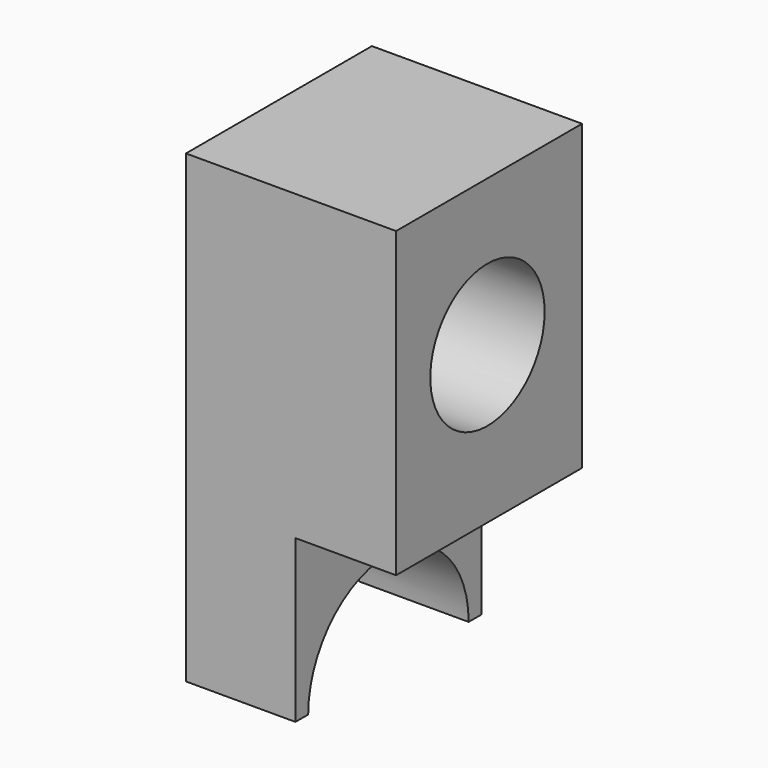
from build123d import *

# Parameters (mm, degrees)
F1_DEPTH = 58.166
F2_R     = 17.879779
F3_DEPTH = 52.592631
F5_DEPTH = 27.403686


with BuildPart() as f1:
    # F0 (on Front) → F1 (new body)
    with BuildSketch(Plane.XZ):
        Polygon((0, -40.496975), (0, 0), (25.188945, 0), (25.188945, 75.828001), (-27.402686, 75.828001), (-27.402686, -40.496975), align=None)
    extrude(amount=F1_DEPTH)

    # F2 (on face) → F3 (cut, through all)
    with BuildSketch(Plane.YZ.offset(25.188945)):
        with Locations((-29.593647, 39.162569)):
            Circle(F2_R)
    extrude(amount=-F3_DEPTH, mode=Mode.SUBTRACT)

    # F4 (on face) → F5 (cut, through all)
    with BuildSketch(Plane.YZ):
        with BuildLine():
            Line((-54.177677, -40.496975), (-3.988323, -40.496975))
            ThreePointArc((-3.988323, -40.496975), (-29.083, -15.402298), (-54.177677, -40.496975))
        make_face()
    extrude(amount=-F5_DEPTH, mode=Mode.SUBTRACT)


solid = f1.part
